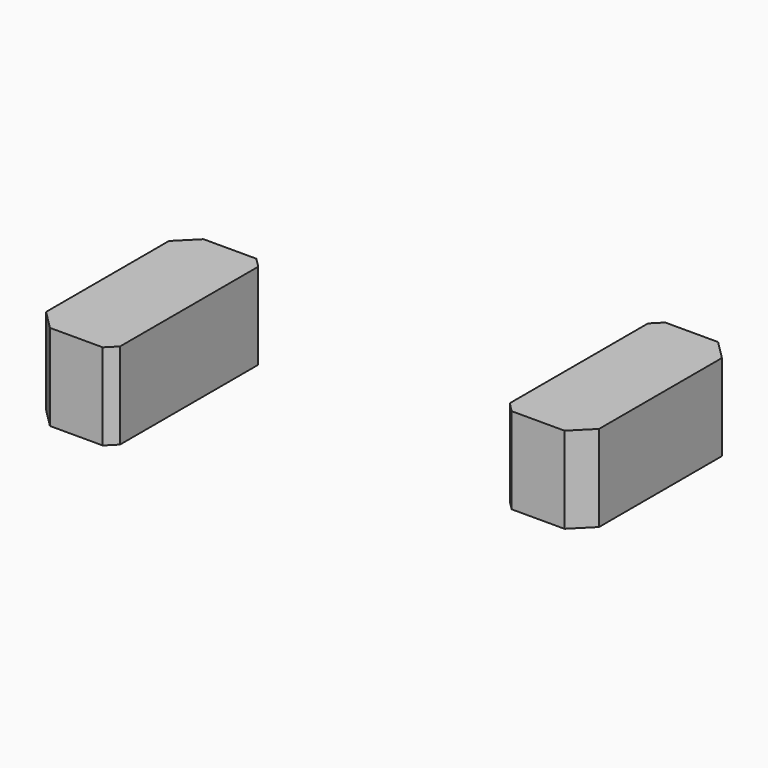
from build123d import *

# Parameters (mm, degrees)
BOX020_W                                      = 8.5
BOX020_H                                      = 20
BOX020_DEPTH                                  = 9
BOX021_W                                      = 8.5
BOX021_H                                      = 20
BOX021_DEPTH                                  = 9
CHAMFER005021077002006007019003032007003_SIZE = 2
CHAMFER005021077002006007019003032007004_SIZE = 1


with BuildPart() as cube018:
    # Box020 → Box020 (new body)
    with BuildSketch(Plane(origin=(15.5, -1.5, 0.5), x_dir=(1, 0, 0), z_dir=(0, 0, 1))):
        with Locations((4.25, 10)):
            Rectangle(BOX020_W, BOX020_H)
    extrude(amount=BOX020_DEPTH)


with BuildPart() as belt_block:
    # Box021 → Box021 (new body)
    with BuildSketch(Plane(origin=(-24, -13.5, 0.5), x_dir=(1, 0, 0), z_dir=(0, 0, 1))):
        with Locations((4.25, 10)):
            Rectangle(BOX021_W, BOX021_H)
    extrude(amount=BOX021_DEPTH)

    # Fusion001007011026003: union Cube018
    add(cube018.part)

    # Chamfer005021077002006007019003032007003
    chamfer005021077002006007019003032007003_edges = [belt_block.edges().sort_by_distance(p)[0] for p in [
        (-24, -13.5, 5),
        (-24, 6.5, 5),
        (24, -1.5, 5),
        (24, 18.5, 5),
    ]]
    chamfer(chamfer005021077002006007019003032007003_edges, length=CHAMFER005021077002006007019003032007003_SIZE)

    # Chamfer005021077002006007019003032007004
    chamfer005021077002006007019003032007004_edges = [belt_block.edges().sort_by_distance(p)[0] for p in [
        (-15.5, -13.5, 5),
        (-15.5, 6.5, 5),
        (15.5, 18.5, 5),
        (15.5, -1.5, 5),
    ]]
    chamfer(chamfer005021077002006007019003032007004_edges, length=CHAMFER005021077002006007019003032007004_SIZE)


solid = belt_block.part
